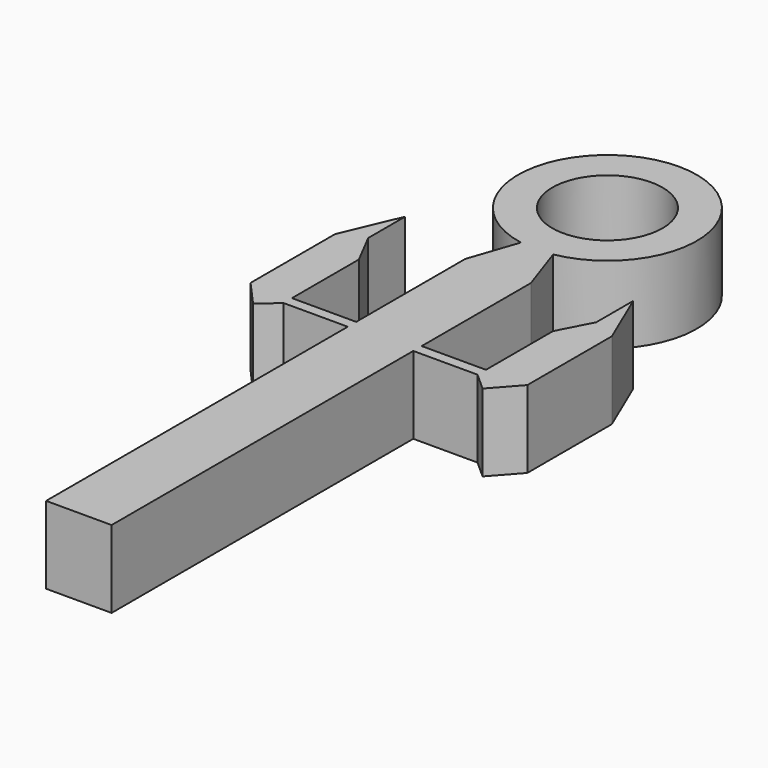
from build123d import *

# Parameters (mm, degrees)
F0_R     = 2.136995
F1_DEPTH = 3


with BuildPart() as f1:
    # F0 (on Top) → F1 (new body)
    with BuildSketch(Plane.XY):
        with BuildLine():
            Line((-1.27, 7.106347), (-1.27, -7.515306))
            Line((-1.27, -7.515306), (0, -7.515306))
            Line((0, -7.515306), (1.27, -7.515306))
            Line((1.27, -7.515306), (1.27, 7.106347))
            Line((1.27, 7.106347), (3.76161, 7.106347))
            Line((3.76161, 7.106347), (4.449622, 6.491259))
            Line((4.449622, 6.491259), (5.365128, 7.515306))
            Line((5.365128, 7.515306), (5.365128, 11.611002))
            Line((5.365128, 11.611002), (4.421882, 13.82763))
            Line((4.421882, 13.82763), (4.421882, 12.035462))
            Line((4.421882, 12.035462), (3.76161, 10.76208))
            Line((3.76161, 10.76208), (3.76161, 7.515306))
            Line((3.76161, 7.515306), (1.27, 7.515306))
            Line((1.27, 7.515306), (1.27, 12.804427))
            Line((1.27, 12.804427), (0.62528, 14.693031))
            ThreePointArc((0.62528, 14.693031), (0, 21.573), (-0.62528, 14.693031))
            Line((-0.62528, 14.693031), (-1.27, 12.804427))
            Line((-1.27, 12.804427), (-1.27, 7.515306))
            Line((-1.27, 7.515306), (-3.76161, 7.515306))
            Line((-3.76161, 7.515306), (-3.76161, 10.76208))
            Line((-3.76161, 10.76208), (-4.421882, 12.035462))
            Line((-4.421882, 12.035462), (-4.421882, 13.82763))
            Line((-4.421882, 13.82763), (-5.365128, 11.611002))
            Line((-5.365128, 11.611002), (-5.365128, 7.515306))
            Line((-5.365128, 7.515306), (-4.449622, 6.491259))
            Line((-4.449622, 6.491259), (-3.76161, 7.106347))
            Line((-3.76161, 7.106347), (-1.27, 7.106347))
        make_face()
        with Locations((0, 18.104602)):
            Circle(F0_R, mode=Mode.SUBTRACT)
    extrude(amount=F1_DEPTH)


solid = f1.part
